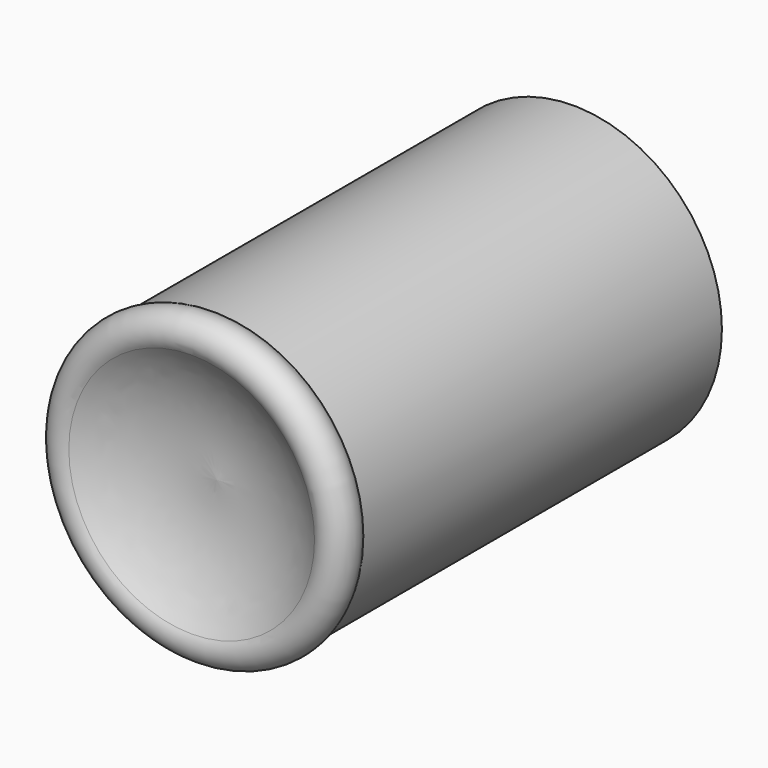
from build123d import *


with BuildPart() as f1:
    # F0 (on Top) → F1 (revolve)
    with BuildSketch(Plane.XY):
        with BuildLine():
            ThreePointArc((0, -65.188989), (18.207665, -66.653242), (34.861051, -74.15843))
            ThreePointArc((34.861051, -74.15843), (42.039067, -73.239244), (42.199682, -66.004395))
            Line((42.199682, -66.004395), (42.199682, 61.1986))
            Line((42.199682, 61.1986), (31.599436, 61.1986))
            Line((31.599436, 61.1986), (31.599436, 66.091023))
            Line((31.599436, 66.091023), (25.076205, 66.091023))
            Line((25.076205, 66.091023), (25.076205, 61.1986))
            Line((25.076205, 61.1986), (0, 61.1986))
            Line((0, 61.1986), (0, -65.188989))
        make_face()
    revolve(axis=Axis((0, -3.626004, 0), (0, -1, 0)))


solid = f1.part
